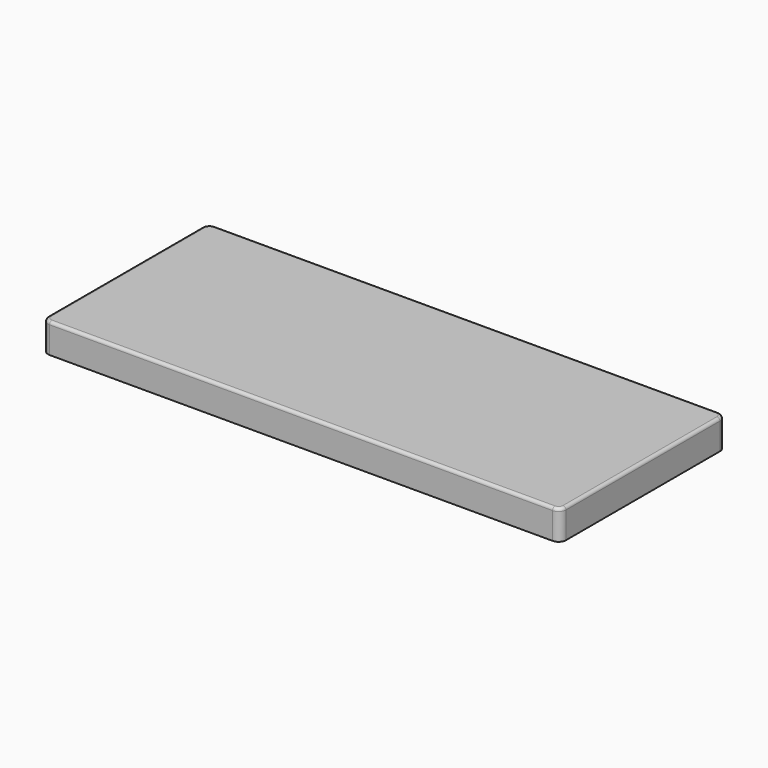
from build123d import *

# Parameters (mm, degrees)
F0_W     = 350
F0_H     = 140
F1_DEPTH = 20
F2_R     = 12.5
F3_DEPTH = 5
F4_R     = 2
F5_R     = 5
F6_R     = 2


with BuildPart() as f1:
    # F0 (on Top) → F1 (new body)
    with BuildSketch(Plane.XY):
        Rectangle(F0_W, F0_H)
    extrude(amount=F1_DEPTH)

    # F2 (on face) → F3 (join)
    with BuildSketch(Plane(origin=(0, 0, 0), x_dir=(1, 0, 0), z_dir=(0, 0, -1))):
        with Locations((145, 40)):
            Circle(F2_R)
        with Locations((145, -40)):
            Circle(F2_R)
        with Locations((-145, 40)):
            Circle(F2_R)
        with Locations((-145, -40)):
            Circle(F2_R)
    extrude(amount=F3_DEPTH)

    # F4
    f4_edges = [f1.edges().sort_by_distance(p)[0] for p in [
        (-157.5, -40, -5),
        (-157.5, 40, -5),
        (132.5, 40, -5),
        (132.5, -40, -5),
    ]]
    fillet(f4_edges, radius=F4_R)

    # F5
    f5_edges = [f1.edges().sort_by_distance(p)[0] for p in [
        (-175, -70, 10),
        (-175, 70, 10),
        (175, -70, 10),
        (175, 70, 10),
    ]]
    fillet(f5_edges, radius=F5_R)

    # F6
    f6_edges = [f1.edges().sort_by_distance(p)[0] for p in [
        (175, 0, 20),
    ]]
    fillet(f6_edges, radius=F6_R)


solid = f1.part
